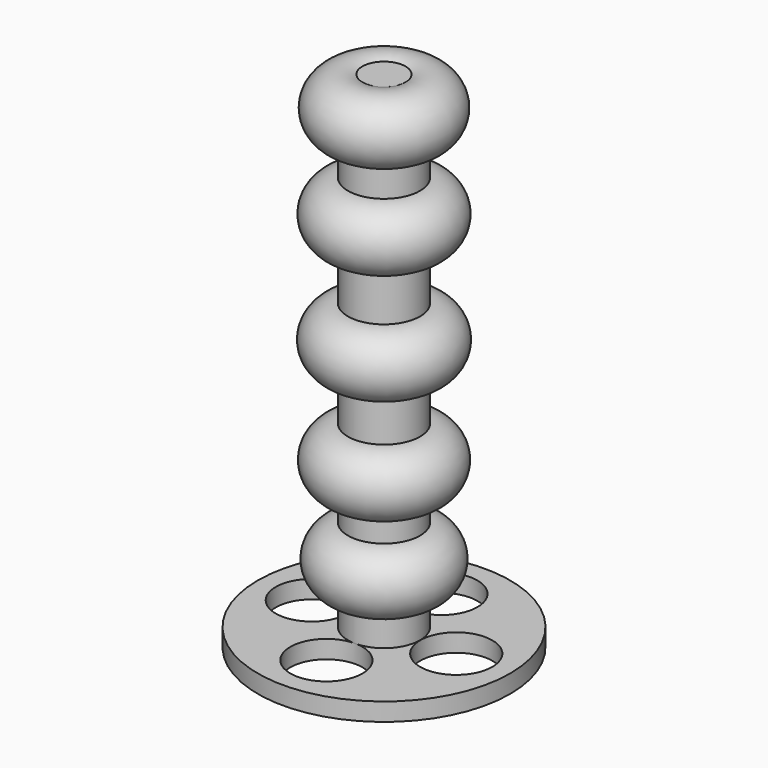
from build123d import *

# Parameters (mm, degrees)
F0_R     = 10
F1_DEPTH = 140
F2_R     = 35
F3_DEPTH = 5
F5_R     = 10
F6_DEPTH = 5
F7_R     = 8.897788


with BuildPart() as f1:
    # F0 (on Top) → F1 (new body)
    with BuildSketch(Plane.XY):
        Circle(F0_R)
    extrude(amount=F1_DEPTH)

    # F2 (on Top) → F3 (join)
    with BuildSketch(Plane.XY):
        Circle(F2_R)
    extrude(amount=F3_DEPTH)

    # F5 (on face) → F6 (cut)
    with BuildSketch(Plane(origin=(0, 0, 0), x_dir=(1, 0, 0), z_dir=(0, 0, -1))):
        with Locations((0, 19.979112)):
            Circle(F5_R)
        with Locations((20.04627, 0)):
            Circle(F5_R)
        with Locations((0, -19.925522)):
            Circle(F5_R)
        with Locations((-20.038113, 0)):
            Circle(F5_R)
    extrude(amount=-F6_DEPTH, mode=Mode.SUBTRACT)


with BuildPart() as f8:
    # F7 (on Front) → F8 (revolve)
    with BuildSketch(Plane.XZ):
        with Locations((9.875239, 105.903551)):
            Circle(F7_R)
        with Locations((9.966486, 75.223476)):
            Circle(F7_R)
        with Locations((9.765866, 45.854714)):
            Circle(F7_R)
        with Locations((9.213421, 21.691671)):
            Circle(F7_R)
        with Locations((9.589477, 131.876662)):
            Circle(F7_R)
    revolve(axis=Axis((0, 0, 0), (0, 0, -1)))


solid = Compound([f1.part, f8.part])
